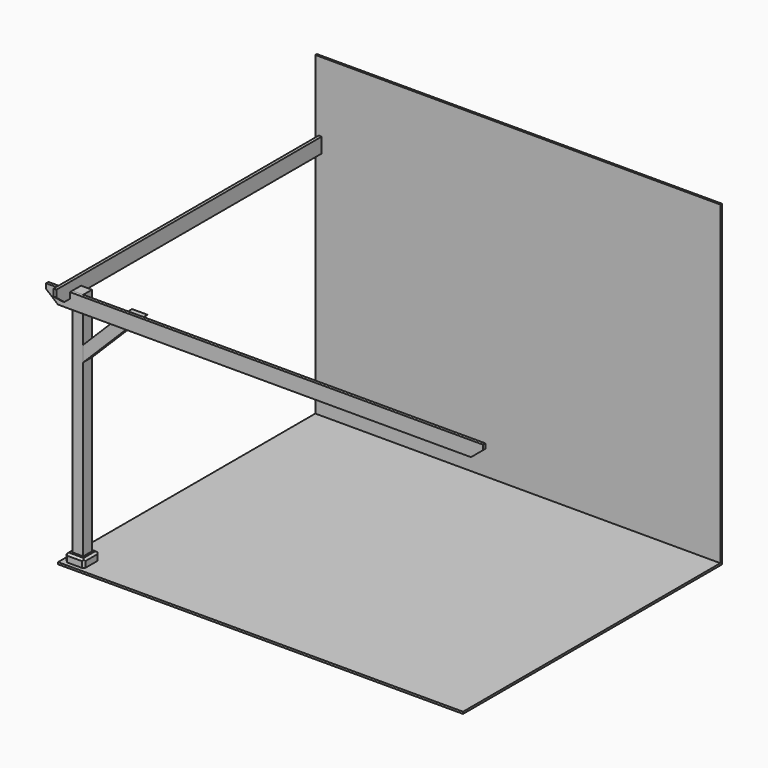
from build123d import *

# Parameters (mm, degrees)
F0_W      = 5181.6
F0_H      = 4114.8
F1_DEPTH  = 25.4
F2_W      = 25.4
F2_H      = 4064
F3_DEPTH  = 5181.6
F4_W      = 139.7
F4_H      = 139.7
F5_DEPTH  = 3048
F6_W      = 5588
F6_H      = 190.5
F7_DEPTH  = 38.1
F8_SIZE2  = 127
F8_SIZE   = 152.4
F9_W      = 4241.8
F9_H      = 190.5
F10_DEPTH = 38.1
F11_SIZE2 = 127
F11_SIZE  = 101.6
F13_DEPTH = 139.7
F14_W     = 241.3
F14_H     = 241.3
F15_DEPTH = 101.6
F16_SIZE  = 25.4
F17_SIZE  = 25.4


with BuildPart() as f1:
    # F0 (on Top) → F1 (new body)
    with BuildSketch(Plane.XY):
        Rectangle(F0_W, F0_H)
    extrude(amount=F1_DEPTH)


with BuildPart() as f3:
    # F2 (on face) → F3 (new body, through all)
    with BuildSketch(Plane(origin=(-2590.8, 0, 0), x_dir=(0, -1, 0), z_dir=(-1, 0, 0))):
        with Locations((-2070.1, 2032)):
            Rectangle(F2_W, F2_H)
    extrude(amount=-F3_DEPTH)


with BuildPart() as f5:
    # F4 (on face) → F5 (new body)
    with BuildSketch(Plane.XY.offset(25.4)):
        with Locations((-2419.35, -1885.95)):
            Rectangle(F4_W, F4_H)
    extrude(amount=F5_DEPTH)


with BuildPart() as f7:
    # F6 (on face) → F7 (new body)
    with BuildSketch(Plane.XZ.offset(1955.8)):
        with Locations((0, 2978.15)):
            Rectangle(F6_W, F6_H)
    extrude(amount=F7_DEPTH)

    # F8
    f8_edges = [f7.edges().sort_by_distance(p)[0] for p in [
        (-2794, -1974.85, 2882.9),
        (2794, -1974.85, 2882.9),
    ]]
    f8_side = f7.faces().sort_by_distance((0, -1974.85, 2882.9))[0]
    chamfer(f8_edges, length=F8_SIZE, length2=F8_SIZE2, reference=f8_side)


with BuildPart() as f10:
    # F9 (on face) → F10 (new body)
    with BuildSketch(Plane(origin=(-2489.2, 0, 0), x_dir=(0, -1, 0), z_dir=(-1, 0, 0))):
        with Locations((88.9, 3092.45)):
            Rectangle(F9_W, F9_H)
    extrude(amount=F10_DEPTH)

    # F11
    f11_edges = [f10.edges().sort_by_distance(p)[0] for p in [
        (-2508.25, -2209.8, 2997.2),
    ]]
    f11_side = f10.faces().sort_by_distance((-2508.25, -2209.8, 3092.45))[0]
    chamfer(f11_edges, length=F11_SIZE, length2=F11_SIZE2, reference=f11_side)


with BuildPart() as f13:
    # F12 (on face) → F13 (new body)
    with BuildSketch(Plane.XZ.offset(1955.8)):
        Polygon((-1835.8656346635, 3022.6), (-2349.5, 2508.9656346635), (-2349.5, 2311.4), (-1638.3, 3022.6), align=None)
    extrude(amount=-F13_DEPTH)


with BuildPart() as f15:
    # F14 (on face) → F15 (new body)
    with BuildSketch(Plane.XY.offset(25.4)):
        with Locations((-2419.35, -1885.95)):
            Rectangle(F14_W, F14_H)
    extrude(amount=F15_DEPTH)

    # F16
    f16_edges = [f15.edges().sort_by_distance(p)[0] for p in [
        (-2540, -2006.6, 76.2),
        (-2540, -1765.3, 76.2),
        (-2298.7, -2006.6, 76.2),
        (-2298.7, -1765.3, 76.2),
    ]]
    chamfer(f16_edges, length=F16_SIZE)

    # F17 (call 1 of 4: OpenCascade refuses the feature's edges together)
    f17_edges = [f15.edges().sort_by_distance(p)[0] for p in [
        (-2540, -1885.95, 127),
    ]]
    chamfer(f17_edges, length=F17_SIZE)

    # F17#2 (call 2 of 4)
    f17_2_edges = [f15.edges().sort_by_distance(p)[0] for p in [
        (-2419.35, -2006.6, 127),
    ]]
    chamfer(f17_2_edges, length=F17_SIZE)

    # F17#3 (call 3 of 4)
    f17_3_edges = [f15.edges().sort_by_distance(p)[0] for p in [
        (-2298.7, -1885.95, 127),
    ]]
    chamfer(f17_3_edges, length=F17_SIZE)

    # F17#4 (call 4 of 4)
    f17_4_edges = [f15.edges().sort_by_distance(p)[0] for p in [
        (-2419.35, -1765.3, 127),
    ]]
    chamfer(f17_4_edges, length=F17_SIZE)


solid = Compound([f1.part, f3.part, f5.part, f7.part, f10.part, f13.part, f15.part])
